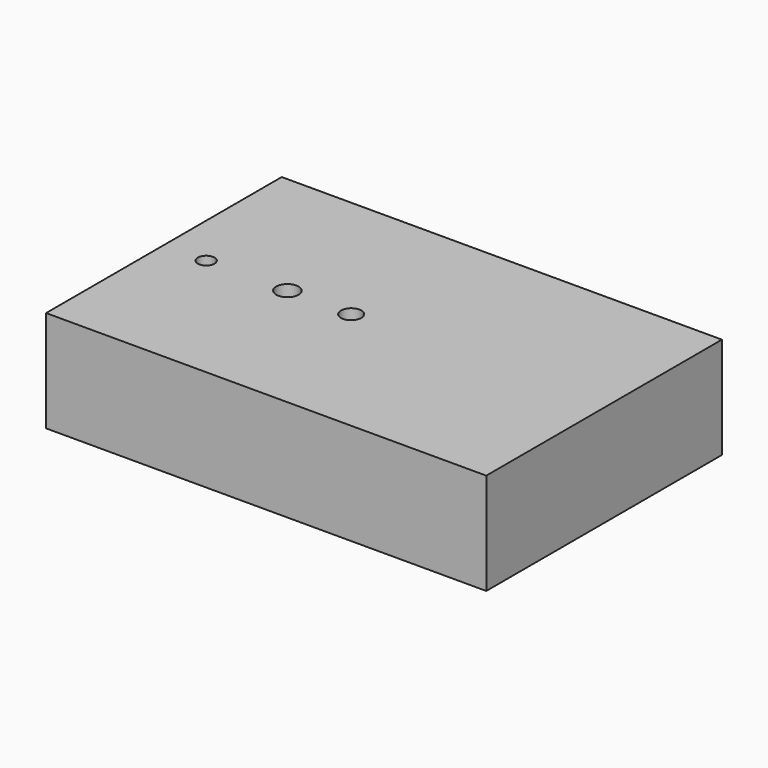
from build123d import *

# Parameters (mm, degrees)
F0_W     = 108.3868816495
F0_H     = 72.5326761603
F1_DEPTH = 25
F3_D     = 4.1
F3_DEPTH = 10
F3_TIP   = 1.231764269
F4_D     = 5.5
F4_DEPTH = 10
F4_TIP   = 1.6523667023
F5_D     = 5
F5_DEPTH = 10
F5_TIP   = 1.5021515476


with BuildPart() as f1:
    # F0 (on Top) → F1 (new body)
    with BuildSketch(Plane.XY):
        Rectangle(F0_W, F0_H)
    extrude(amount=F1_DEPTH)

    # F3
    with Locations(Plane.XY.offset(25)):
        with Locations((-43.7879338861, 0)):
            Hole(F3_D / 2, depth=F3_DEPTH)
            with Locations((0, 0, -(F3_DEPTH + F3_TIP / 2))):  # 118° drill point
                Cone(0, F3_D / 2, F3_TIP, mode=Mode.SUBTRACT)

    # F4
    with Locations(Plane.XY.offset(25)):
        with Locations((-23.7893629819, 0)):
            Hole(F4_D / 2, depth=F4_DEPTH)
            with Locations((0, 0, -(F4_DEPTH + F4_TIP / 2))):  # 118° drill point
                Cone(0, F4_D / 2, F4_TIP, mode=Mode.SUBTRACT)

    # F5
    with Locations(Plane.XY.offset(25)):
        with Locations((-8.0840988085, 0)):
            Hole(F5_D / 2, depth=F5_DEPTH)
            with Locations((0, 0, -(F5_DEPTH + F5_TIP / 2))):  # 118° drill point
                Cone(0, F5_D / 2, F5_TIP, mode=Mode.SUBTRACT)


solid = f1.part
